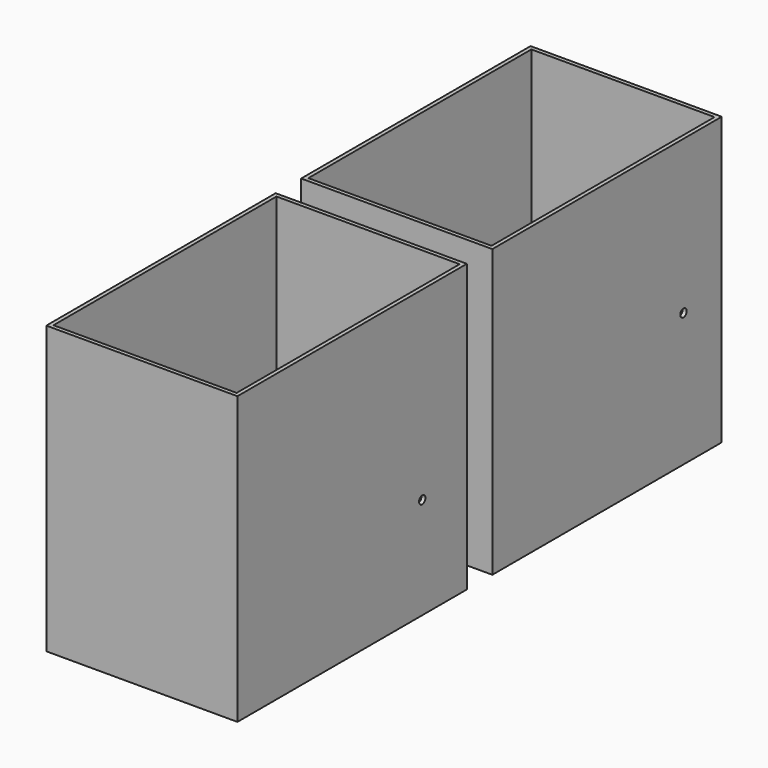
from build123d import *

# Parameters (mm, degrees)
F0_W      = 609.6
F0_H      = 914.4
F1_DEPTH  = 914.4
F2_W      = 609.6
F2_H      = 914.4
F3_DEPTH  = 914.4
F4_W      = 584.2
F4_H      = 889
F5_DEPTH  = 508
F6_W      = 584.2
F6_H      = 889
F7_DEPTH  = 609.6
F8_R      = 12.7
F9_DEPTH  = 25.4
F10_R     = 12.7
F11_DEPTH = 25.4


with BuildPart() as f1:
    # F0 (on Top) → F1 (new body)
    with BuildSketch(Plane.XY):
        Rectangle(F0_W, F0_H)
    extrude(amount=F1_DEPTH)

    # F4 (on face) → F5 (cut)
    with BuildSketch(Plane.XY.offset(914.4)):
        Rectangle(F4_W, F4_H)
    extrude(amount=-F5_DEPTH, mode=Mode.SUBTRACT)

    # F8 (on face) → F9 (cut)
    with BuildSketch(Plane.YZ.offset(304.8)):
        with Locations((304.8, 425.45)):
            Circle(F8_R)
    extrude(amount=-F9_DEPTH, mode=Mode.SUBTRACT)


with BuildPart() as f3:
    # F2 (on Top) → F3 (new body)
    with BuildSketch(Plane.XY):
        with Locations((0, -1016)):
            Rectangle(F2_W, F2_H)
    extrude(amount=F3_DEPTH)

    # F6 (on face) → F7 (cut)
    with BuildSketch(Plane.XY.offset(914.4)):
        with Locations((0, -1016)):
            Rectangle(F6_W, F6_H)
    extrude(amount=-F7_DEPTH, mode=Mode.SUBTRACT)

    # F10 (on face) → F11 (cut)
    with BuildSketch(Plane.YZ.offset(304.8)):
        with Locations((-736.6, 323.85)):
            Circle(F10_R)
    extrude(amount=-F11_DEPTH, mode=Mode.SUBTRACT)


solid = Compound([f1.part, f3.part])
